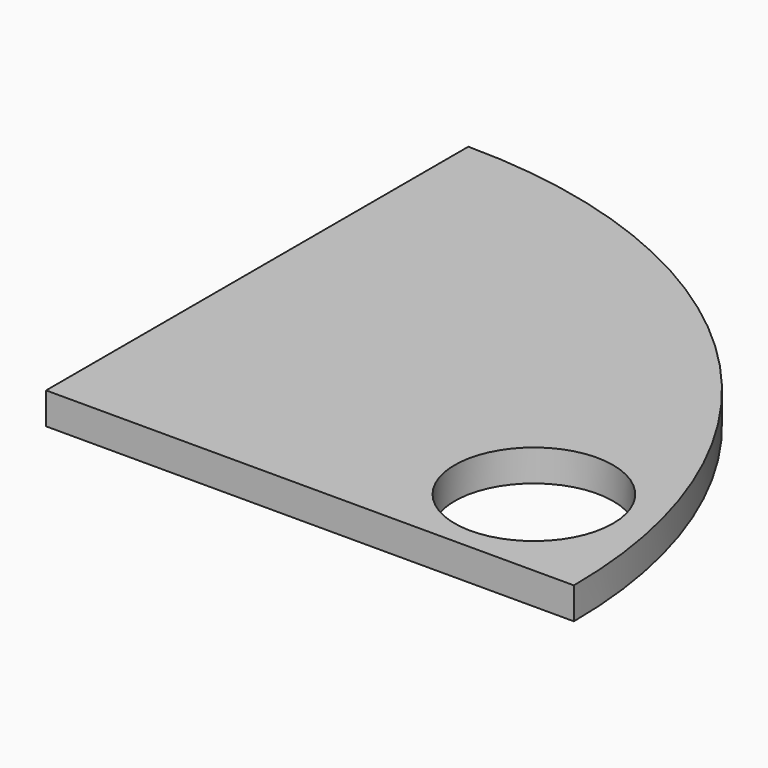
from build123d import *

# Parameters (mm, degrees)
F0_R     = 7.5
F1_DEPTH = 3


with BuildPart() as f1:
    # F0 (on Top) → F1 (new body)
    with BuildSketch(Plane.XY):
        with BuildLine():
            Line((0, 50), (0, 0))
            Line((0, 0), (50, 0))
            ThreePointArc((50, 0), (35.355339, 35.355339), (0, 50))
        make_face()
        with Locations((38.571432, 9.548321)):
            Circle(F0_R, mode=Mode.SUBTRACT)
    extrude(amount=F1_DEPTH)


solid = f1.part
